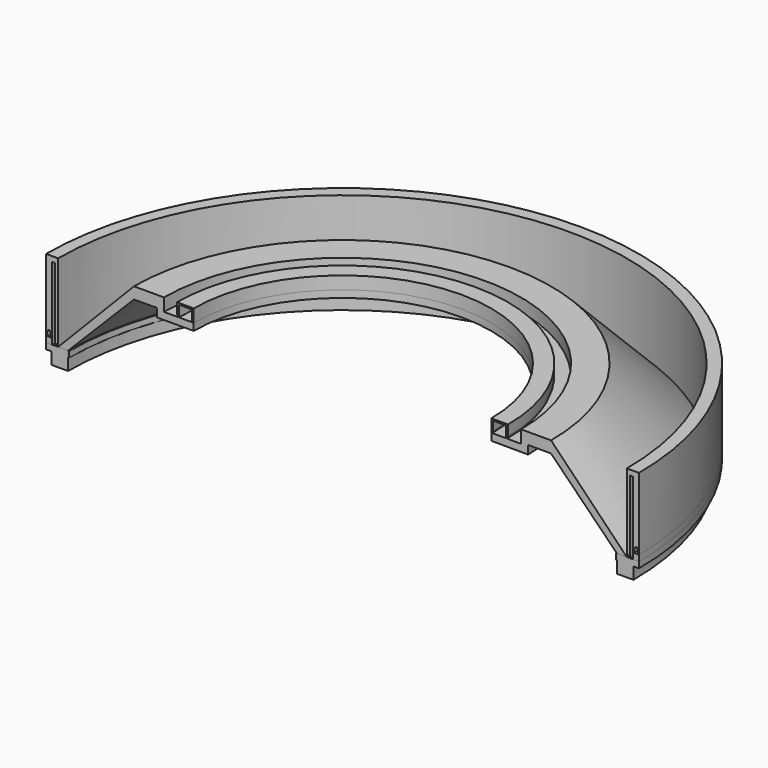
from build123d import *

# Parameters (mm, degrees)
F0_R      = 126.52371
F0_R_2    = 124.15936
F1_DEPTH  = 2.54
F2_R      = 124.15936
F2_R_2    = 117.14064
F3_DEPTH  = 5.08
F4_R      = 125.743209
F4_R_2    = 116.730939
F5_DEPTH  = 2.54
F6_W      = 349.577502
F6_H      = 219.862625
F7_DEPTH  = 152.4
F9_ANGLE  = 180
F10_W     = 2.54
F10_H     = 2.592745
F11_ANGLE = -180
F13_ANGLE = -180
F15_ANGLE = -180


with BuildPart() as f1:
    # F0 (on Top) → F1 (new body)
    with BuildSketch(Plane.XY):
        Circle(F0_R)
        Circle(F0_R_2, mode=Mode.SUBTRACT)
    extrude(amount=F1_DEPTH)


with BuildPart() as f3:
    # F2 (on face) → F3 (new body)
    with BuildSketch(Plane(origin=(0, 0, 0), x_dir=(1, 0, 0), z_dir=(0, 0, -1))):
        Circle(F2_R)
        Circle(F2_R_2, mode=Mode.SUBTRACT)
    extrude(amount=F3_DEPTH)


with BuildPart() as f5:
    # F4 (on face) → F5 (new body)
    with BuildSketch(Plane.XY.offset(2.54)):
        Circle(F4_R)
        Circle(F4_R_2, mode=Mode.SUBTRACT)
    extrude(amount=-F5_DEPTH)


with BuildPart() as f7_tool:
    # F6 (on Front) → F7 (new body)
    with BuildSketch(Plane.XZ):
        with Locations((13.366215, -9.95794)):
            Rectangle(F6_W, F6_H)
    extrude(amount=F7_DEPTH)


with BuildPart() as f1_1:
    add(f1.part)

    # F7: cut by f7_tool
    add(f7_tool.part, mode=Mode.SUBTRACT)



with BuildPart() as f3_1:
    add(f3.part)

    # F7: cut by f7_tool
    add(f7_tool.part, mode=Mode.SUBTRACT)



with BuildPart() as f5_1:
    add(f5.part)

    # F7: cut by f7_tool
    add(f7_tool.part, mode=Mode.SUBTRACT)


with BuildPart() as f3_2:
    add(f3_1.part)

    add(f5_1.part)  # F9 merges F5
    # F8 (on Front) → F9 (revolve)
    with BuildSketch(Plane.XZ):
        with BuildLine():
            Line((76.2, 30.439905), (63.500063, 30.480015))
            Line((63.500063, 30.480015), (63.5, 27.432))
            Line((63.5, 27.432), (79.248, 27.382263))
            Line((79.248, 27.382263), (79.248, 30.552636))
            ThreePointArc((79.248, 30.552636), (79.504396, 30.993951), (80.01477, 30.989788))
            Line((80.01477, 30.989788), (89.014673, 30.961363))
            Line((89.014673, 30.961363), (119.667187, 0))
            Line((119.667187, 0), (121.44371, 2.490375))
            Line((121.44371, 2.490375), (89.014673, 35.898866))
            Line((89.014673, 35.898866), (76.2, 35.898866))
            Line((76.2, 35.898866), (76.2, 30.439905))
        make_face()
    revolve(axis=Axis((0, 0, 15.24), (0, 0, 1)), revolution_arc=F9_ANGLE)


with BuildPart() as f11:
    # F10 (on Front) → F11 (revolve)
    with BuildSketch(Plane.XZ):
        with Locations((125.25371, 3.834921)):
            Rectangle(F10_W, F10_H)
    revolve(axis=Axis((0, 0, -9.371076), (0, 0, -1)), revolution_arc=F11_ANGLE)


with BuildPart() as f1_2:
    add(f1_1.part)

    add(f3_2.part)  # F13 merges F3

    add(f11.part)  # F13 merges F11
    # F12 (on face) → F13 (revolve)
    with BuildSketch(Plane.XZ):
        Polygon((117.14064, 2.574337), (117.14064, 0), (117.14064, -5.08), (124.15936, -5.08), (124.15936, 0), (126.506045, 0), (126.506045, 5.119951), (124.000214, 5.119951), (124.000214, 2.574337), align=None)
    revolve(axis=Axis((0, 0, -4.455078), (0, 0, -1)), revolution_arc=F13_ANGLE)


with BuildPart() as f15:
    # F14 (on face) → F15 (revolve)
    with BuildSketch(Plane.XZ):
        Polygon((-63.500063, 30.480015), (-63.500063, 35.898866), (-64.300063, 35.898866), (-69.850032, 35.898866), (-70.650032, 35.898866), (-70.650032, 31.521954), (-70.250032, 30.45996), (-69.850032, 30.45996), (-69.850032, 35.247635), (-64.300063, 35.247635), (-64.300063, 31.381838), (-63.900063, 30.480015), align=None)
        Polygon((-126.52371, 33.689883), (-126.52371, 5.131294), (-126.12371, 5.131294), (-126.12371, 6.615987), (-125.65191, 7.657902), (-125.140778, 7.657902), (-124.38371, 6.615987), (-124.38371, 5.131294), (-123.98371, 5.131294), (-123.98371, 33.689883), (-122.67296, 33.689883), (-122.67296, 2.574337), (-122.27296, 2.574337), (-122.27296, 3.31086), (-122.038392, 3.592338), (-121.76221, 3.362182), (-121.76221, 2.574337), (-121.36221, 2.574337), (-121.36221, 33.689883), (-121.36221, 35.898866), (-122.67296, 35.898866), (-123.98371, 35.898866), (-126.52371, 35.898866), align=None)
    revolve(axis=Axis((0, 0, 17.949433), (0, 0, 1)), revolution_arc=F15_ANGLE)


solid = Compound([f1_2.part, f15.part])
